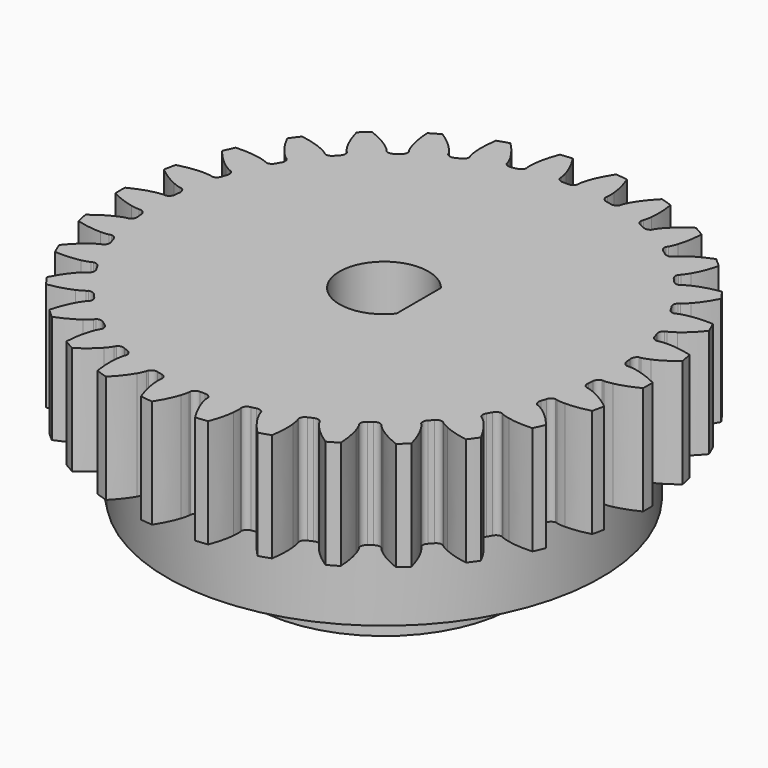
from build123d import *

# Parameters (mm, degrees)
PAD_DEPTH       = 5
POCKET002_DEPTH = 11.001
PAD007_DEPTH    = 3.5
SKETCH014_R     = 1
POCKET003_DEPTH = 5
FILLET_R        = 1


with BuildPart() as part:
    # Sketch010 → Revolution (revolve)
    with BuildSketch(Plane.XZ):
        Polygon((0, 11), (-10, 11), (-10, 2.5), (-6, 2.5), (-6, 0), (0, 0), align=None)
    revolve(axis=Axis((0, 0, 0), (0, 0, 1)))

    # InvoluteGear → Pad (new body)
    with BuildSketch(Plane.XY.offset(6)):
        with BuildLine():
            Line((10.615939, -0.715152), (10.704098, -0.720509))
            add(Edge.make_bspline(
                [(10.704098, -0.720509), (10.746069, -0.721059), (10.872585, -0.71818), (11.083148, -0.674656)],
                knots=[0, 0, 0, 0, 1, 1, 1, 1], degree=3))
            add(Edge.make_bspline(
                [(11.083148, -0.674656), (11.335623, -0.621892), (11.701003, -0.511169), (12.157546, -0.279921)],
                knots=[0, 0, 0, 0, 1, 1, 1, 1], degree=3))
            ThreePointArc((12.157546, -0.279921), (12.160768, 0), (12.157546, 0.279921))
            add(Edge.make_bspline(
                [(12.157546, 0.279921), (11.701003, 0.511169), (11.335623, 0.621892), (11.083148, 0.674656)],
                knots=[0, 0, 0, 0, 1, 1, 1, 1], degree=3))
            add(Edge.make_bspline(
                [(11.083148, 0.674656), (10.872585, 0.71818), (10.746069, 0.721059), (10.704098, 0.720509)],
                knots=[0, 0, 0, 0, 1, 1, 1, 1], degree=3))
            Line((10.704098, 0.720509), (10.615939, 0.715152))
            ThreePointArc((10.615939, 0.715152), (10.466645, 0.812163), (10.404055, 0.978843))
            ThreePointArc((10.404055, 0.978843), (10.392754, 1.092322), (10.380215, 1.205672))
            ThreePointArc((10.380215, 1.205672), (10.406782, 1.381723), (10.532644, 1.507653))
            Line((10.532644, 1.507653), (10.61999, 1.520743))
            add(Edge.make_bspline(
                [(10.61999, 1.520743), (10.661158, 1.528931), (10.784311, 1.558051), (10.981224, 1.644403)],
                knots=[0, 0, 0, 0, 1, 1, 1, 1], degree=3))
            add(Edge.make_bspline(
                [(10.981224, 1.644403), (11.217211, 1.748506), (11.551586, 1.932776), (11.950073, 2.253892)],
                knots=[0, 0, 0, 0, 1, 1, 1, 1], degree=3))
            ThreePointArc((11.950073, 2.253892), (11.895026, 2.528366), (11.833676, 2.8015))
            add(Edge.make_bspline(
                [(11.833676, 2.8015), (11.33903, 2.932774), (10.958613, 2.96511), (10.700686, 2.96423)],
                knots=[0, 0, 0, 0, 1, 1, 1, 1], degree=3))
            add(Edge.make_bspline(
                [(10.700686, 2.96423), (10.485675, 2.963024), (10.361325, 2.939536), (10.320385, 2.930271)],
                knots=[0, 0, 0, 0, 1, 1, 1, 1], degree=3))
            Line((10.320385, 2.930271), (10.235267, 2.906702))
            ThreePointArc((10.235267, 2.906702), (10.069065, 2.970553), (9.973189, 3.120578))
            ThreePointArc((9.973189, 3.120578), (9.938541, 3.229228), (9.902709, 3.337493))
            ThreePointArc((9.902709, 3.337493), (9.892092, 3.51522), (9.989021, 3.664567))
            Line((9.989021, 3.664567), (10.071737, 3.695531))
            add(Edge.make_bspline(
                [(10.071737, 3.695531), (10.110304, 3.712099), (10.224711, 3.766189), (10.399367, 3.891593)],
                knots=[0, 0, 0, 0, 1, 1, 1, 1], degree=3))
            add(Edge.make_bspline(
                [(10.399367, 3.891593), (10.608553, 4.042487), (10.89731, 4.29225), (11.220325, 4.689199)],
                knots=[0, 0, 0, 0, 1, 1, 1, 1], degree=3))
            ThreePointArc((11.220325, 4.689199), (11.109415, 4.94623), (10.992617, 5.20064))
            add(Edge.make_bspline(
                [(10.992617, 5.20064), (10.481487, 5.226203), (10.10266, 5.17874), (9.850552, 5.124252)],
                knots=[0, 0, 0, 0, 1, 1, 1, 1], degree=3))
            add(Edge.make_bspline(
                [(9.850552, 5.124252), (9.64049, 5.078369), (9.523741, 5.02954), (9.485622, 5.011967)],
                knots=[0, 0, 0, 0, 1, 1, 1, 1], degree=3))
            Line((9.485622, 5.011967), (9.407264, 4.971215))
            ThreePointArc((9.407264, 4.971215), (9.23142, 4.999116), (9.106446, 5.125928))
            ThreePointArc((9.106446, 5.125928), (9.049965, 5.225), (8.992407, 5.32345))
            ThreePointArc((8.992407, 5.32345), (8.945071, 5.495086), (9.008831, 5.661322))
            Line((9.008831, 5.661322), (9.083302, 5.708807))
            add(Edge.make_bspline(
                [(9.083302, 5.708807), (9.11758, 5.733031), (9.218242, 5.809725), (9.363009, 5.968703)],
                knots=[0, 0, 0, 0, 1, 1, 1, 1], degree=3))
            add(Edge.make_bspline(
                [(9.363009, 5.968703), (9.53625, 6.159791), (9.766768, 6.464133), (10.000195, 6.919566)],
                knots=[0, 0, 0, 0, 1, 1, 1, 1], degree=3))
            ThreePointArc((10.000195, 6.919566), (9.838268, 7.14792), (9.671128, 7.372487))
            add(Edge.make_bspline(
                [(9.671128, 7.372487), (9.165853, 7.291222), (8.805172, 7.166033), (8.569902, 7.06032)],
                knots=[0, 0, 0, 0, 1, 1, 1, 1], degree=3))
            add(Edge.make_bspline(
                [(8.569902, 7.06032), (8.37397, 6.971765), (8.269924, 6.89973), (8.236292, 6.874615)],
                knots=[0, 0, 0, 0, 1, 1, 1, 1], degree=3))
            Line((8.236292, 6.874615), (8.168119, 6.818463))
            ThreePointArc((8.168119, 6.818463), (7.990316, 6.809193), (7.841708, 6.907251))
            ThreePointArc((7.841708, 6.907251), (7.765863, 6.992415), (7.689094, 7.076746))
            ThreePointArc((7.689094, 7.076746), (7.607107, 7.23479), (7.634911, 7.41065))
            Line((7.634911, 7.41065), (7.697882, 7.47258))
            add(Edge.make_bspline(
                [(7.697882, 7.47258), (7.726375, 7.503402), (7.808891, 7.599349), (7.917441, 7.784951)],
                knots=[0, 0, 0, 0, 1, 1, 1, 1], degree=3))
            add(Edge.make_bspline(
                [(7.917441, 7.784951), (8.047168, 8.007882), (8.209372, 8.353501), (8.343008, 8.847514)],
                knots=[0, 0, 0, 0, 1, 1, 1, 1], degree=3))
            ThreePointArc((8.343008, 8.847514), (8.137142, 9.037212), (7.926965, 9.222121))
            add(Edge.make_bspline(
                [(7.926965, 9.222121), (7.449627, 9.037579), (7.122856, 8.840136), (6.914706, 8.687818)],
                knots=[0, 0, 0, 0, 1, 1, 1, 1], degree=3))
            add(Edge.make_bspline(
                [(6.914706, 8.687818), (6.741468, 8.560462), (6.654672, 8.468368), (6.626997, 8.43681)],
                knots=[0, 0, 0, 0, 1, 1, 1, 1], degree=3))
            Line((6.626997, 8.43681), (6.571988, 8.36771))
            ThreePointArc((6.571988, 8.36771), (6.399998, 8.321676), (6.23425, 8.386694))
            ThreePointArc((6.23425, 8.386694), (6.142356, 8.454228), (6.049731, 8.520755))
            ThreePointArc((6.049731, 8.520755), (5.936676, 8.658299), (5.927309, 8.836097))
            Line((5.927309, 8.836097), (5.976028, 8.909766))
            add(Edge.make_bspline(
                [(5.976028, 8.909766), (5.99749, 8.945839), (6.058255, 9.056845), (6.125844, 9.26096)],
                knots=[0, 0, 0, 0, 1, 1, 1, 1], degree=3))
            add(Edge.make_bspline(
                [(6.125844, 9.26096), (6.206385, 9.505991), (6.293187, 9.877781), (6.321191, 10.388783)],
                knots=[0, 0, 0, 0, 1, 1, 1, 1], degree=3))
            ThreePointArc((6.321191, 10.388783), (6.080384, 10.531534), (5.836355, 10.668704))
            add(Edge.make_bspline(
                [(5.836355, 10.668704), (5.407816, 10.388951), (5.129237, 10.127883), (4.957305, 9.935616)],
                knots=[0, 0, 0, 0, 1, 1, 1, 1], degree=3))
            add(Edge.make_bspline(
                [(4.957305, 9.935616), (4.81433, 9.775025), (4.748579, 9.666898), (4.72807, 9.630275)],
                knots=[0, 0, 0, 0, 1, 1, 1, 1], degree=3))
            Line((4.72807, 9.630275), (4.688629, 9.551249))
            ThreePointArc((4.688629, 9.551249), (4.529969, 9.470462), (4.354325, 9.499598))
            ThreePointArc((4.354325, 9.499598), (4.250398, 9.54655), (4.145965, 9.592365))
            ThreePointArc((4.145965, 9.592365), (4.006784, 9.703399), (3.960656, 9.875364))
            Line((3.960656, 9.875364), (3.992993, 9.957552))
            add(Edge.make_bspline(
                [(3.992993, 9.957552), (4.006486, 9.997299), (4.042843, 10.118513), (4.066518, 10.33222)],
                knots=[0, 0, 0, 0, 1, 1, 1, 1], degree=3))
            add(Edge.make_bspline(
                [(4.066518, 10.33222), (4.094354, 10.588643), (4.10196, 10.970355), (4.023109, 11.476013)],
                knots=[0, 0, 0, 0, 1, 1, 1, 1], degree=3))
            ThreePointArc((4.023109, 11.476013), (3.757884, 11.565578), (3.490668, 11.649014))
            add(Edge.make_bspline(
                [(3.490668, 11.649014), (3.129658, 11.286275), (2.911446, 10.972993), (2.783245, 10.749181)],
                knots=[0, 0, 0, 0, 1, 1, 1, 1], degree=3))
            add(Edge.make_bspline(
                [(2.783245, 10.749181), (2.676784, 10.562373), (2.63495, 10.442938), (2.622503, 10.402851)],
                knots=[0, 0, 0, 0, 1, 1, 1, 1], degree=3))
            Line((2.622503, 10.402851), (2.600355, 10.317352))
            ThreePointArc((2.600355, 10.317352), (2.461958, 10.205343), (2.284095, 10.197324))
            ThreePointArc((2.284095, 10.197324), (2.172677, 10.221642), (2.061001, 10.244744))
            ThreePointArc((2.061001, 10.244744), (1.901776, 10.324413), (1.820902, 10.48303))
            Line((1.820902, 10.48303), (1.835445, 10.570146))
            add(Edge.make_bspline(
                [(1.835445, 10.570146), (1.840379, 10.611829), (1.85074, 10.737954), (1.829465, 10.951913)],
                knots=[0, 0, 0, 0, 1, 1, 1, 1], degree=3))
            add(Edge.make_bspline(
                [(1.829465, 10.951913), (1.80338, 11.208519), (1.731457, 11.583472), (1.549197, 12.061686)],
                knots=[0, 0, 0, 0, 1, 1, 1, 1], degree=3))
            ThreePointArc((1.549197, 12.061686), (1.271146, 12.09415), (0.992422, 12.120205))
            add(Edge.make_bspline(
                [(0.992422, 12.120205), (0.714719, 11.690336), (0.56641, 11.33853), (0.487544, 11.092955)],
                knots=[0, 0, 0, 0, 1, 1, 1, 1], degree=3))
            add(Edge.make_bspline(
                [(0.487544, 11.092955), (0.422249, 10.888094), (0.406161, 10.762572), (0.402321, 10.720773)],
                knots=[0, 0, 0, 0, 1, 1, 1, 1], degree=3))
            Line((0.402321, 10.720773), (0.398433, 10.632537))
            ThreePointArc((0.398433, 10.632537), (0.286349, 10.494202), (0.114039, 10.449378))
            ThreePointArc((0.114039, 10.449378), (0, 10.45), (-0.114039, 10.449378))
            ThreePointArc((-0.114039, 10.449378), (-0.286349, 10.494202), (-0.398433, 10.632537))
            Line((-0.398433, 10.632537), (-0.402321, 10.720773))
            add(Edge.make_bspline(
                [(-0.402321, 10.720773), (-0.406161, 10.762572), (-0.422249, 10.888094), (-0.487544, 11.092955)],
                knots=[0, 0, 0, 0, 1, 1, 1, 1], degree=3))
            add(Edge.make_bspline(
                [(-0.487544, 11.092955), (-0.56641, 11.33853), (-0.714719, 11.690336), (-0.992422, 12.120205)],
                knots=[0, 0, 0, 0, 1, 1, 1, 1], degree=3))
            ThreePointArc((-0.992422, 12.120205), (-1.271146, 12.09415), (-1.549197, 12.061686))
            add(Edge.make_bspline(
                [(-1.549197, 12.061686), (-1.731457, 11.583472), (-1.80338, 11.208519), (-1.829465, 10.951913)],
                knots=[0, 0, 0, 0, 1, 1, 1, 1], degree=3))
            add(Edge.make_bspline(
                [(-1.829465, 10.951913), (-1.85074, 10.737954), (-1.840379, 10.611829), (-1.835445, 10.570146)],
                knots=[0, 0, 0, 0, 1, 1, 1, 1], degree=3))
            Line((-1.835445, 10.570146), (-1.820902, 10.48303))
            ThreePointArc((-1.820902, 10.48303), (-1.901776, 10.324413), (-2.061001, 10.244744))
            ThreePointArc((-2.061001, 10.244744), (-2.172677, 10.221642), (-2.284095, 10.197324))
            ThreePointArc((-2.284095, 10.197324), (-2.461958, 10.205343), (-2.600355, 10.317352))
            Line((-2.600355, 10.317352), (-2.622503, 10.402851))
            add(Edge.make_bspline(
                [(-2.622503, 10.402851), (-2.63495, 10.442938), (-2.676784, 10.562373), (-2.783245, 10.749181)],
                knots=[0, 0, 0, 0, 1, 1, 1, 1], degree=3))
            add(Edge.make_bspline(
                [(-2.783245, 10.749181), (-2.911446, 10.972993), (-3.129658, 11.286275), (-3.490668, 11.649014)],
                knots=[0, 0, 0, 0, 1, 1, 1, 1], degree=3))
            ThreePointArc((-3.490668, 11.649014), (-3.757884, 11.565578), (-4.023109, 11.476013))
            add(Edge.make_bspline(
                [(-4.023109, 11.476013), (-4.10196, 10.970355), (-4.094354, 10.588643), (-4.066518, 10.33222)],
                knots=[0, 0, 0, 0, 1, 1, 1, 1], degree=3))
            add(Edge.make_bspline(
                [(-4.066518, 10.33222), (-4.042843, 10.118513), (-4.006486, 9.997299), (-3.992993, 9.957552)],
                knots=[0, 0, 0, 0, 1, 1, 1, 1], degree=3))
            Line((-3.992993, 9.957552), (-3.960656, 9.875364))
            ThreePointArc((-3.960656, 9.875364), (-4.006784, 9.703399), (-4.145965, 9.592365))
            ThreePointArc((-4.145965, 9.592365), (-4.250398, 9.54655), (-4.354325, 9.499598))
            ThreePointArc((-4.354325, 9.499598), (-4.529969, 9.470462), (-4.688629, 9.551249))
            Line((-4.688629, 9.551249), (-4.72807, 9.630275))
            add(Edge.make_bspline(
                [(-4.72807, 9.630275), (-4.748579, 9.666898), (-4.81433, 9.775025), (-4.957305, 9.935616)],
                knots=[0, 0, 0, 0, 1, 1, 1, 1], degree=3))
            add(Edge.make_bspline(
                [(-4.957305, 9.935616), (-5.129237, 10.127883), (-5.407816, 10.388951), (-5.836355, 10.668704)],
                knots=[0, 0, 0, 0, 1, 1, 1, 1], degree=3))
            ThreePointArc((-5.836355, 10.668704), (-6.080384, 10.531534), (-6.321191, 10.388783))
            add(Edge.make_bspline(
                [(-6.321191, 10.388783), (-6.293187, 9.877781), (-6.206385, 9.505991), (-6.125844, 9.26096)],
                knots=[0, 0, 0, 0, 1, 1, 1, 1], degree=3))
            add(Edge.make_bspline(
                [(-6.125844, 9.26096), (-6.058255, 9.056845), (-5.99749, 8.945839), (-5.976028, 8.909766)],
                knots=[0, 0, 0, 0, 1, 1, 1, 1], degree=3))
            Line((-5.976028, 8.909766), (-5.927309, 8.836097))
            ThreePointArc((-5.927309, 8.836097), (-5.936676, 8.658299), (-6.049731, 8.520755))
            ThreePointArc((-6.049731, 8.520755), (-6.142356, 8.454228), (-6.23425, 8.386694))
            ThreePointArc((-6.23425, 8.386694), (-6.399998, 8.321676), (-6.571988, 8.36771))
            Line((-6.571988, 8.36771), (-6.626997, 8.43681))
            add(Edge.make_bspline(
                [(-6.626997, 8.43681), (-6.654672, 8.468368), (-6.741468, 8.560462), (-6.914706, 8.687818)],
                knots=[0, 0, 0, 0, 1, 1, 1, 1], degree=3))
            add(Edge.make_bspline(
                [(-6.914706, 8.687818), (-7.122856, 8.840136), (-7.449627, 9.037579), (-7.926965, 9.222121)],
                knots=[0, 0, 0, 0, 1, 1, 1, 1], degree=3))
            ThreePointArc((-7.926965, 9.222121), (-8.137142, 9.037212), (-8.343008, 8.847514))
            add(Edge.make_bspline(
                [(-8.343008, 8.847514), (-8.209372, 8.353501), (-8.047168, 8.007882), (-7.917441, 7.784951)],
                knots=[0, 0, 0, 0, 1, 1, 1, 1], degree=3))
            add(Edge.make_bspline(
                [(-7.917441, 7.784951), (-7.808891, 7.599349), (-7.726375, 7.503402), (-7.697882, 7.47258)],
                knots=[0, 0, 0, 0, 1, 1, 1, 1], degree=3))
            Line((-7.697882, 7.47258), (-7.634911, 7.41065))
            ThreePointArc((-7.634911, 7.41065), (-7.607107, 7.23479), (-7.689094, 7.076746))
            ThreePointArc((-7.689094, 7.076746), (-7.765863, 6.992415), (-7.841708, 6.907251))
            ThreePointArc((-7.841708, 6.907251), (-7.990316, 6.809193), (-8.168119, 6.818463))
            Line((-8.168119, 6.818463), (-8.236292, 6.874615))
            add(Edge.make_bspline(
                [(-8.236292, 6.874615), (-8.269924, 6.89973), (-8.37397, 6.971765), (-8.569902, 7.06032)],
                knots=[0, 0, 0, 0, 1, 1, 1, 1], degree=3))
            add(Edge.make_bspline(
                [(-8.569902, 7.06032), (-8.805172, 7.166033), (-9.165853, 7.291222), (-9.671128, 7.372487)],
                knots=[0, 0, 0, 0, 1, 1, 1, 1], degree=3))
            ThreePointArc((-9.671128, 7.372487), (-9.838268, 7.14792), (-10.000195, 6.919566))
            add(Edge.make_bspline(
                [(-10.000195, 6.919566), (-9.766768, 6.464133), (-9.53625, 6.159791), (-9.363009, 5.968703)],
                knots=[0, 0, 0, 0, 1, 1, 1, 1], degree=3))
            add(Edge.make_bspline(
                [(-9.363009, 5.968703), (-9.218242, 5.809725), (-9.11758, 5.733031), (-9.083302, 5.708807)],
                knots=[0, 0, 0, 0, 1, 1, 1, 1], degree=3))
            Line((-9.083302, 5.708807), (-9.008831, 5.661322))
            ThreePointArc((-9.008831, 5.661322), (-8.945071, 5.495086), (-8.992407, 5.32345))
            ThreePointArc((-8.992407, 5.32345), (-9.049965, 5.225), (-9.106446, 5.125928))
            ThreePointArc((-9.106446, 5.125928), (-9.23142, 4.999116), (-9.407264, 4.971215))
            Line((-9.407264, 4.971215), (-9.485622, 5.011967))
            add(Edge.make_bspline(
                [(-9.485622, 5.011967), (-9.523741, 5.02954), (-9.64049, 5.078369), (-9.850552, 5.124252)],
                knots=[0, 0, 0, 0, 1, 1, 1, 1], degree=3))
            add(Edge.make_bspline(
                [(-9.850552, 5.124252), (-10.10266, 5.17874), (-10.481487, 5.226203), (-10.992617, 5.20064)],
                knots=[0, 0, 0, 0, 1, 1, 1, 1], degree=3))
            ThreePointArc((-10.992617, 5.20064), (-11.109415, 4.94623), (-11.220325, 4.689199))
            add(Edge.make_bspline(
                [(-11.220325, 4.689199), (-10.89731, 4.29225), (-10.608553, 4.042487), (-10.399367, 3.891593)],
                knots=[0, 0, 0, 0, 1, 1, 1, 1], degree=3))
            add(Edge.make_bspline(
                [(-10.399367, 3.891593), (-10.224711, 3.766189), (-10.110304, 3.712099), (-10.071737, 3.695531)],
                knots=[0, 0, 0, 0, 1, 1, 1, 1], degree=3))
            Line((-10.071737, 3.695531), (-9.989021, 3.664567))
            ThreePointArc((-9.989021, 3.664567), (-9.892092, 3.51522), (-9.902709, 3.337493))
            ThreePointArc((-9.902709, 3.337493), (-9.938541, 3.229228), (-9.973189, 3.120578))
            ThreePointArc((-9.973189, 3.120578), (-10.069065, 2.970553), (-10.235267, 2.906702))
            Line((-10.235267, 2.906702), (-10.320385, 2.930271))
            add(Edge.make_bspline(
                [(-10.320385, 2.930271), (-10.361325, 2.939536), (-10.485675, 2.963024), (-10.700686, 2.96423)],
                knots=[0, 0, 0, 0, 1, 1, 1, 1], degree=3))
            add(Edge.make_bspline(
                [(-10.700686, 2.96423), (-10.958613, 2.96511), (-11.33903, 2.932774), (-11.833676, 2.8015)],
                knots=[0, 0, 0, 0, 1, 1, 1, 1], degree=3))
            ThreePointArc((-11.833676, 2.8015), (-11.895026, 2.528366), (-11.950073, 2.253892))
            add(Edge.make_bspline(
                [(-11.950073, 2.253892), (-11.551586, 1.932776), (-11.217211, 1.748506), (-10.981224, 1.644403)],
                knots=[0, 0, 0, 0, 1, 1, 1, 1], degree=3))
            add(Edge.make_bspline(
                [(-10.981224, 1.644403), (-10.784311, 1.558051), (-10.661158, 1.528931), (-10.61999, 1.520743)],
                knots=[0, 0, 0, 0, 1, 1, 1, 1], degree=3))
            Line((-10.61999, 1.520743), (-10.532644, 1.507653))
            ThreePointArc((-10.532644, 1.507653), (-10.406782, 1.381723), (-10.380215, 1.205672))
            ThreePointArc((-10.380215, 1.205672), (-10.392754, 1.092322), (-10.404055, 0.978843))
            ThreePointArc((-10.404055, 0.978843), (-10.466645, 0.812163), (-10.615939, 0.715152))
            Line((-10.615939, 0.715152), (-10.704098, 0.720509))
            add(Edge.make_bspline(
                [(-10.704098, 0.720509), (-10.746069, 0.721059), (-10.872585, 0.71818), (-11.083148, 0.674656)],
                knots=[0, 0, 0, 0, 1, 1, 1, 1], degree=3))
            add(Edge.make_bspline(
                [(-11.083148, 0.674656), (-11.335623, 0.621892), (-11.701003, 0.511169), (-12.157546, 0.279921)],
                knots=[0, 0, 0, 0, 1, 1, 1, 1], degree=3))
            ThreePointArc((-12.157546, 0.279921), (-12.160768, 0), (-12.157546, -0.279921))
            add(Edge.make_bspline(
                [(-12.157546, -0.279921), (-11.701003, -0.511169), (-11.335623, -0.621892), (-11.083148, -0.674656)],
                knots=[0, 0, 0, 0, 1, 1, 1, 1], degree=3))
            add(Edge.make_bspline(
                [(-11.083148, -0.674656), (-10.872585, -0.71818), (-10.746069, -0.721059), (-10.704098, -0.720509)],
                knots=[0, 0, 0, 0, 1, 1, 1, 1], degree=3))
            Line((-10.704098, -0.720509), (-10.615939, -0.715152))
            ThreePointArc((-10.615939, -0.715152), (-10.466645, -0.812163), (-10.404055, -0.978843))
            ThreePointArc((-10.404055, -0.978843), (-10.392754, -1.092322), (-10.380215, -1.205672))
            ThreePointArc((-10.380215, -1.205672), (-10.406782, -1.381723), (-10.532644, -1.507653))
            Line((-10.532644, -1.507653), (-10.61999, -1.520743))
            add(Edge.make_bspline(
                [(-10.61999, -1.520743), (-10.661158, -1.528931), (-10.784311, -1.558051), (-10.981224, -1.644403)],
                knots=[0, 0, 0, 0, 1, 1, 1, 1], degree=3))
            add(Edge.make_bspline(
                [(-10.981224, -1.644403), (-11.217211, -1.748506), (-11.551586, -1.932776), (-11.950073, -2.253892)],
                knots=[0, 0, 0, 0, 1, 1, 1, 1], degree=3))
            ThreePointArc((-11.950073, -2.253892), (-11.895026, -2.528366), (-11.833676, -2.8015))
            add(Edge.make_bspline(
                [(-11.833676, -2.8015), (-11.33903, -2.932774), (-10.958613, -2.96511), (-10.700686, -2.96423)],
                knots=[0, 0, 0, 0, 1, 1, 1, 1], degree=3))
            add(Edge.make_bspline(
                [(-10.700686, -2.96423), (-10.485675, -2.963024), (-10.361325, -2.939536), (-10.320385, -2.930271)],
                knots=[0, 0, 0, 0, 1, 1, 1, 1], degree=3))
            Line((-10.320385, -2.930271), (-10.235267, -2.906702))
            ThreePointArc((-10.235267, -2.906702), (-10.069065, -2.970553), (-9.973189, -3.120578))
            ThreePointArc((-9.973189, -3.120578), (-9.938541, -3.229228), (-9.902709, -3.337493))
            ThreePointArc((-9.902709, -3.337493), (-9.892092, -3.51522), (-9.989021, -3.664567))
            Line((-9.989021, -3.664567), (-10.071737, -3.695531))
            add(Edge.make_bspline(
                [(-10.071737, -3.695531), (-10.110304, -3.712099), (-10.224711, -3.766189), (-10.399367, -3.891593)],
                knots=[0, 0, 0, 0, 1, 1, 1, 1], degree=3))
            add(Edge.make_bspline(
                [(-10.399367, -3.891593), (-10.608553, -4.042487), (-10.89731, -4.29225), (-11.220325, -4.689199)],
                knots=[0, 0, 0, 0, 1, 1, 1, 1], degree=3))
            ThreePointArc((-11.220325, -4.689199), (-11.109415, -4.94623), (-10.992617, -5.20064))
            add(Edge.make_bspline(
                [(-10.992617, -5.20064), (-10.481487, -5.226203), (-10.10266, -5.17874), (-9.850552, -5.124252)],
                knots=[0, 0, 0, 0, 1, 1, 1, 1], degree=3))
            add(Edge.make_bspline(
                [(-9.850552, -5.124252), (-9.64049, -5.078369), (-9.523741, -5.02954), (-9.485622, -5.011967)],
                knots=[0, 0, 0, 0, 1, 1, 1, 1], degree=3))
            Line((-9.485622, -5.011967), (-9.407264, -4.971215))
            ThreePointArc((-9.407264, -4.971215), (-9.23142, -4.999116), (-9.106446, -5.125928))
            ThreePointArc((-9.106446, -5.125928), (-9.049965, -5.225), (-8.992407, -5.32345))
            ThreePointArc((-8.992407, -5.32345), (-8.945071, -5.495086), (-9.008831, -5.661322))
            Line((-9.008831, -5.661322), (-9.083302, -5.708807))
            add(Edge.make_bspline(
                [(-9.083302, -5.708807), (-9.11758, -5.733031), (-9.218242, -5.809725), (-9.363009, -5.968703)],
                knots=[0, 0, 0, 0, 1, 1, 1, 1], degree=3))
            add(Edge.make_bspline(
                [(-9.363009, -5.968703), (-9.53625, -6.159791), (-9.766768, -6.464133), (-10.000195, -6.919566)],
                knots=[0, 0, 0, 0, 1, 1, 1, 1], degree=3))
            ThreePointArc((-10.000195, -6.919566), (-9.838268, -7.14792), (-9.671128, -7.372487))
            add(Edge.make_bspline(
                [(-9.671128, -7.372487), (-9.165853, -7.291222), (-8.805172, -7.166033), (-8.569902, -7.06032)],
                knots=[0, 0, 0, 0, 1, 1, 1, 1], degree=3))
            add(Edge.make_bspline(
                [(-8.569902, -7.06032), (-8.37397, -6.971765), (-8.269924, -6.89973), (-8.236292, -6.874615)],
                knots=[0, 0, 0, 0, 1, 1, 1, 1], degree=3))
            Line((-8.236292, -6.874615), (-8.168119, -6.818463))
            ThreePointArc((-8.168119, -6.818463), (-7.990316, -6.809193), (-7.841708, -6.907251))
            ThreePointArc((-7.841708, -6.907251), (-7.765863, -6.992415), (-7.689094, -7.076746))
            ThreePointArc((-7.689094, -7.076746), (-7.607107, -7.23479), (-7.634911, -7.41065))
            Line((-7.634911, -7.41065), (-7.697882, -7.47258))
            add(Edge.make_bspline(
                [(-7.697882, -7.47258), (-7.726375, -7.503402), (-7.808891, -7.599349), (-7.917441, -7.784951)],
                knots=[0, 0, 0, 0, 1, 1, 1, 1], degree=3))
            add(Edge.make_bspline(
                [(-7.917441, -7.784951), (-8.047168, -8.007882), (-8.209372, -8.353501), (-8.343008, -8.847514)],
                knots=[0, 0, 0, 0, 1, 1, 1, 1], degree=3))
            ThreePointArc((-8.343008, -8.847514), (-8.137142, -9.037212), (-7.926965, -9.222121))
            add(Edge.make_bspline(
                [(-7.926965, -9.222121), (-7.449627, -9.037579), (-7.122856, -8.840136), (-6.914706, -8.687818)],
                knots=[0, 0, 0, 0, 1, 1, 1, 1], degree=3))
            add(Edge.make_bspline(
                [(-6.914706, -8.687818), (-6.741468, -8.560462), (-6.654672, -8.468368), (-6.626997, -8.43681)],
                knots=[0, 0, 0, 0, 1, 1, 1, 1], degree=3))
            Line((-6.626997, -8.43681), (-6.571988, -8.36771))
            ThreePointArc((-6.571988, -8.36771), (-6.399998, -8.321676), (-6.23425, -8.386694))
            ThreePointArc((-6.23425, -8.386694), (-6.142356, -8.454228), (-6.049731, -8.520755))
            ThreePointArc((-6.049731, -8.520755), (-5.936676, -8.658299), (-5.927309, -8.836097))
            Line((-5.927309, -8.836097), (-5.976028, -8.909766))
            add(Edge.make_bspline(
                [(-5.976028, -8.909766), (-5.99749, -8.945839), (-6.058255, -9.056845), (-6.125844, -9.26096)],
                knots=[0, 0, 0, 0, 1, 1, 1, 1], degree=3))
            add(Edge.make_bspline(
                [(-6.125844, -9.26096), (-6.206385, -9.505991), (-6.293187, -9.877781), (-6.321191, -10.388783)],
                knots=[0, 0, 0, 0, 1, 1, 1, 1], degree=3))
            ThreePointArc((-6.321191, -10.388783), (-6.080384, -10.531534), (-5.836355, -10.668704))
            add(Edge.make_bspline(
                [(-5.836355, -10.668704), (-5.407816, -10.388951), (-5.129237, -10.127883), (-4.957305, -9.935616)],
                knots=[0, 0, 0, 0, 1, 1, 1, 1], degree=3))
            add(Edge.make_bspline(
                [(-4.957305, -9.935616), (-4.81433, -9.775025), (-4.748579, -9.666898), (-4.72807, -9.630275)],
                knots=[0, 0, 0, 0, 1, 1, 1, 1], degree=3))
            Line((-4.72807, -9.630275), (-4.688629, -9.551249))
            ThreePointArc((-4.688629, -9.551249), (-4.529969, -9.470462), (-4.354325, -9.499598))
            ThreePointArc((-4.354325, -9.499598), (-4.250398, -9.54655), (-4.145965, -9.592365))
            ThreePointArc((-4.145965, -9.592365), (-4.006784, -9.703399), (-3.960656, -9.875364))
            Line((-3.960656, -9.875364), (-3.992993, -9.957552))
            add(Edge.make_bspline(
                [(-3.992993, -9.957552), (-4.006486, -9.997299), (-4.042843, -10.118513), (-4.066518, -10.33222)],
                knots=[0, 0, 0, 0, 1, 1, 1, 1], degree=3))
            add(Edge.make_bspline(
                [(-4.066518, -10.33222), (-4.094354, -10.588643), (-4.10196, -10.970355), (-4.023109, -11.476013)],
                knots=[0, 0, 0, 0, 1, 1, 1, 1], degree=3))
            ThreePointArc((-4.023109, -11.476013), (-3.757884, -11.565578), (-3.490668, -11.649014))
            add(Edge.make_bspline(
                [(-3.490668, -11.649014), (-3.129658, -11.286275), (-2.911446, -10.972993), (-2.783245, -10.749181)],
                knots=[0, 0, 0, 0, 1, 1, 1, 1], degree=3))
            add(Edge.make_bspline(
                [(-2.783245, -10.749181), (-2.676784, -10.562373), (-2.63495, -10.442938), (-2.622503, -10.402851)],
                knots=[0, 0, 0, 0, 1, 1, 1, 1], degree=3))
            Line((-2.622503, -10.402851), (-2.600355, -10.317352))
            ThreePointArc((-2.600355, -10.317352), (-2.461958, -10.205343), (-2.284095, -10.197324))
            ThreePointArc((-2.284095, -10.197324), (-2.172677, -10.221642), (-2.061001, -10.244744))
            ThreePointArc((-2.061001, -10.244744), (-1.901776, -10.324413), (-1.820902, -10.48303))
            Line((-1.820902, -10.48303), (-1.835445, -10.570146))
            add(Edge.make_bspline(
                [(-1.835445, -10.570146), (-1.840379, -10.611829), (-1.85074, -10.737954), (-1.829465, -10.951913)],
                knots=[0, 0, 0, 0, 1, 1, 1, 1], degree=3))
            add(Edge.make_bspline(
                [(-1.829465, -10.951913), (-1.80338, -11.208519), (-1.731457, -11.583472), (-1.549197, -12.061686)],
                knots=[0, 0, 0, 0, 1, 1, 1, 1], degree=3))
            ThreePointArc((-1.549197, -12.061686), (-1.271146, -12.09415), (-0.992422, -12.120205))
            add(Edge.make_bspline(
                [(-0.992422, -12.120205), (-0.714719, -11.690336), (-0.56641, -11.33853), (-0.487544, -11.092955)],
                knots=[0, 0, 0, 0, 1, 1, 1, 1], degree=3))
            add(Edge.make_bspline(
                [(-0.487544, -11.092955), (-0.422249, -10.888094), (-0.406161, -10.762572), (-0.402321, -10.720773)],
                knots=[0, 0, 0, 0, 1, 1, 1, 1], degree=3))
            Line((-0.402321, -10.720773), (-0.398433, -10.632537))
            ThreePointArc((-0.398433, -10.632537), (-0.286349, -10.494202), (-0.114039, -10.449378))
            ThreePointArc((-0.114039, -10.449378), (0, -10.45), (0.114039, -10.449378))
            ThreePointArc((0.114039, -10.449378), (0.286349, -10.494202), (0.398433, -10.632537))
            Line((0.398433, -10.632537), (0.402321, -10.720773))
            add(Edge.make_bspline(
                [(0.402321, -10.720773), (0.406161, -10.762572), (0.422249, -10.888094), (0.487544, -11.092955)],
                knots=[0, 0, 0, 0, 1, 1, 1, 1], degree=3))
            add(Edge.make_bspline(
                [(0.487544, -11.092955), (0.56641, -11.33853), (0.714719, -11.690336), (0.992422, -12.120205)],
                knots=[0, 0, 0, 0, 1, 1, 1, 1], degree=3))
            ThreePointArc((0.992422, -12.120205), (1.271146, -12.09415), (1.549197, -12.061686))
            add(Edge.make_bspline(
                [(1.549197, -12.061686), (1.731457, -11.583472), (1.80338, -11.208519), (1.829465, -10.951913)],
                knots=[0, 0, 0, 0, 1, 1, 1, 1], degree=3))
            add(Edge.make_bspline(
                [(1.829465, -10.951913), (1.85074, -10.737954), (1.840379, -10.611829), (1.835445, -10.570146)],
                knots=[0, 0, 0, 0, 1, 1, 1, 1], degree=3))
            Line((1.835445, -10.570146), (1.820902, -10.48303))
            ThreePointArc((1.820902, -10.48303), (1.901776, -10.324413), (2.061001, -10.244744))
            ThreePointArc((2.061001, -10.244744), (2.172677, -10.221642), (2.284095, -10.197324))
            ThreePointArc((2.284095, -10.197324), (2.461958, -10.205343), (2.600355, -10.317352))
            Line((2.600355, -10.317352), (2.622503, -10.402851))
            add(Edge.make_bspline(
                [(2.622503, -10.402851), (2.63495, -10.442938), (2.676784, -10.562373), (2.783245, -10.749181)],
                knots=[0, 0, 0, 0, 1, 1, 1, 1], degree=3))
            add(Edge.make_bspline(
                [(2.783245, -10.749181), (2.911446, -10.972993), (3.129658, -11.286275), (3.490668, -11.649014)],
                knots=[0, 0, 0, 0, 1, 1, 1, 1], degree=3))
            ThreePointArc((3.490668, -11.649014), (3.757884, -11.565578), (4.023109, -11.476013))
            add(Edge.make_bspline(
                [(4.023109, -11.476013), (4.10196, -10.970355), (4.094354, -10.588643), (4.066518, -10.33222)],
                knots=[0, 0, 0, 0, 1, 1, 1, 1], degree=3))
            add(Edge.make_bspline(
                [(4.066518, -10.33222), (4.042843, -10.118513), (4.006486, -9.997299), (3.992993, -9.957552)],
                knots=[0, 0, 0, 0, 1, 1, 1, 1], degree=3))
            Line((3.992993, -9.957552), (3.960656, -9.875364))
            ThreePointArc((3.960656, -9.875364), (4.006784, -9.703399), (4.145965, -9.592365))
            ThreePointArc((4.145965, -9.592365), (4.250398, -9.54655), (4.354325, -9.499598))
            ThreePointArc((4.354325, -9.499598), (4.529969, -9.470462), (4.688629, -9.551249))
            Line((4.688629, -9.551249), (4.72807, -9.630275))
            add(Edge.make_bspline(
                [(4.72807, -9.630275), (4.748579, -9.666898), (4.81433, -9.775025), (4.957305, -9.935616)],
                knots=[0, 0, 0, 0, 1, 1, 1, 1], degree=3))
            add(Edge.make_bspline(
                [(4.957305, -9.935616), (5.129237, -10.127883), (5.407816, -10.388951), (5.836355, -10.668704)],
                knots=[0, 0, 0, 0, 1, 1, 1, 1], degree=3))
            ThreePointArc((5.836355, -10.668704), (6.080384, -10.531534), (6.321191, -10.388783))
            add(Edge.make_bspline(
                [(6.321191, -10.388783), (6.293187, -9.877781), (6.206385, -9.505991), (6.125844, -9.26096)],
                knots=[0, 0, 0, 0, 1, 1, 1, 1], degree=3))
            add(Edge.make_bspline(
                [(6.125844, -9.26096), (6.058255, -9.056845), (5.99749, -8.945839), (5.976028, -8.909766)],
                knots=[0, 0, 0, 0, 1, 1, 1, 1], degree=3))
            Line((5.976028, -8.909766), (5.927309, -8.836097))
            ThreePointArc((5.927309, -8.836097), (5.936676, -8.658299), (6.049731, -8.520755))
            ThreePointArc((6.049731, -8.520755), (6.142356, -8.454228), (6.23425, -8.386694))
            ThreePointArc((6.23425, -8.386694), (6.399998, -8.321676), (6.571988, -8.36771))
            Line((6.571988, -8.36771), (6.626997, -8.43681))
            add(Edge.make_bspline(
                [(6.626997, -8.43681), (6.654672, -8.468368), (6.741468, -8.560462), (6.914706, -8.687818)],
                knots=[0, 0, 0, 0, 1, 1, 1, 1], degree=3))
            add(Edge.make_bspline(
                [(6.914706, -8.687818), (7.122856, -8.840136), (7.449627, -9.037579), (7.926965, -9.222121)],
                knots=[0, 0, 0, 0, 1, 1, 1, 1], degree=3))
            ThreePointArc((7.926965, -9.222121), (8.137142, -9.037212), (8.343008, -8.847514))
            add(Edge.make_bspline(
                [(8.343008, -8.847514), (8.209372, -8.353501), (8.047168, -8.007882), (7.917441, -7.784951)],
                knots=[0, 0, 0, 0, 1, 1, 1, 1], degree=3))
            add(Edge.make_bspline(
                [(7.917441, -7.784951), (7.808891, -7.599349), (7.726375, -7.503402), (7.697882, -7.47258)],
                knots=[0, 0, 0, 0, 1, 1, 1, 1], degree=3))
            Line((7.697882, -7.47258), (7.634911, -7.41065))
            ThreePointArc((7.634911, -7.41065), (7.607107, -7.23479), (7.689094, -7.076746))
            ThreePointArc((7.689094, -7.076746), (7.765863, -6.992415), (7.841708, -6.907251))
            ThreePointArc((7.841708, -6.907251), (7.990316, -6.809193), (8.168119, -6.818463))
            Line((8.168119, -6.818463), (8.236292, -6.874615))
            add(Edge.make_bspline(
                [(8.236292, -6.874615), (8.269924, -6.89973), (8.37397, -6.971765), (8.569902, -7.06032)],
                knots=[0, 0, 0, 0, 1, 1, 1, 1], degree=3))
            add(Edge.make_bspline(
                [(8.569902, -7.06032), (8.805172, -7.166033), (9.165853, -7.291222), (9.671128, -7.372487)],
                knots=[0, 0, 0, 0, 1, 1, 1, 1], degree=3))
            ThreePointArc((9.671128, -7.372487), (9.838268, -7.14792), (10.000195, -6.919566))
            add(Edge.make_bspline(
                [(10.000195, -6.919566), (9.766768, -6.464133), (9.53625, -6.159791), (9.363009, -5.968703)],
                knots=[0, 0, 0, 0, 1, 1, 1, 1], degree=3))
            add(Edge.make_bspline(
                [(9.363009, -5.968703), (9.218242, -5.809725), (9.11758, -5.733031), (9.083302, -5.708807)],
                knots=[0, 0, 0, 0, 1, 1, 1, 1], degree=3))
            Line((9.083302, -5.708807), (9.008831, -5.661322))
            ThreePointArc((9.008831, -5.661322), (8.945071, -5.495086), (8.992407, -5.32345))
            ThreePointArc((8.992407, -5.32345), (9.049965, -5.225), (9.106446, -5.125928))
            ThreePointArc((9.106446, -5.125928), (9.23142, -4.999116), (9.407264, -4.971215))
            Line((9.407264, -4.971215), (9.485622, -5.011967))
            add(Edge.make_bspline(
                [(9.485622, -5.011967), (9.523741, -5.02954), (9.64049, -5.078369), (9.850552, -5.124252)],
                knots=[0, 0, 0, 0, 1, 1, 1, 1], degree=3))
            add(Edge.make_bspline(
                [(9.850552, -5.124252), (10.10266, -5.17874), (10.481487, -5.226203), (10.992617, -5.20064)],
                knots=[0, 0, 0, 0, 1, 1, 1, 1], degree=3))
            ThreePointArc((10.992617, -5.20064), (11.109415, -4.94623), (11.220325, -4.689199))
            add(Edge.make_bspline(
                [(11.220325, -4.689199), (10.89731, -4.29225), (10.608553, -4.042487), (10.399367, -3.891593)],
                knots=[0, 0, 0, 0, 1, 1, 1, 1], degree=3))
            add(Edge.make_bspline(
                [(10.399367, -3.891593), (10.224711, -3.766189), (10.110304, -3.712099), (10.071737, -3.695531)],
                knots=[0, 0, 0, 0, 1, 1, 1, 1], degree=3))
            Line((10.071737, -3.695531), (9.989021, -3.664567))
            ThreePointArc((9.989021, -3.664567), (9.892092, -3.51522), (9.902709, -3.337493))
            ThreePointArc((9.902709, -3.337493), (9.938541, -3.229228), (9.973189, -3.120578))
            ThreePointArc((9.973189, -3.120578), (10.069065, -2.970553), (10.235267, -2.906702))
            Line((10.235267, -2.906702), (10.320385, -2.930271))
            add(Edge.make_bspline(
                [(10.320385, -2.930271), (10.361325, -2.939536), (10.485675, -2.963024), (10.700686, -2.96423)],
                knots=[0, 0, 0, 0, 1, 1, 1, 1], degree=3))
            add(Edge.make_bspline(
                [(10.700686, -2.96423), (10.958613, -2.96511), (11.33903, -2.932774), (11.833676, -2.8015)],
                knots=[0, 0, 0, 0, 1, 1, 1, 1], degree=3))
            ThreePointArc((11.833676, -2.8015), (11.895026, -2.528366), (11.950073, -2.253892))
            add(Edge.make_bspline(
                [(11.950073, -2.253892), (11.551586, -1.932776), (11.217211, -1.748506), (10.981224, -1.644403)],
                knots=[0, 0, 0, 0, 1, 1, 1, 1], degree=3))
            add(Edge.make_bspline(
                [(10.981224, -1.644403), (10.784311, -1.558051), (10.661158, -1.528931), (10.61999, -1.520743)],
                knots=[0, 0, 0, 0, 1, 1, 1, 1], degree=3))
            Line((10.61999, -1.520743), (10.532644, -1.507653))
            ThreePointArc((10.532644, -1.507653), (10.406782, -1.381723), (10.380215, -1.205672))
            ThreePointArc((10.380215, -1.205672), (10.392754, -1.092322), (10.404055, -0.978843))
            ThreePointArc((10.404055, -0.978843), (10.466645, -0.812163), (10.615939, -0.715152))
        make_face()
    extrude(amount=PAD_DEPTH)

    # Sketch011 (on Face2 of Revolution) → Pocket002 (cut, through all)
    with BuildSketch(Plane(origin=(0, 0, 11), x_dir=(-1, 0, 0), z_dir=(0, 0, 1))):
        with BuildLine():
            ThreePointArc((-1.6, -1.281601), (2.05, 0), (-1.6, 1.281601))
            Line((-1.6, 1.281601), (-1.6, -1.281601))
        make_face()
    extrude(amount=-POCKET002_DEPTH, mode=Mode.SUBTRACT)

    # Sketch012 (on Face5 of Pocket002) → Pad007 (join)
    with BuildSketch(Plane(origin=(0, 0, 2.5), x_dir=(-1, 0, 0), z_dir=(0, 0, 1))):
        Polygon((7.142886, 6.998513), (14, 0), (7.142886, -6.998513), align=None)
    extrude(amount=PAD007_DEPTH)

    # Sketch014 → Pocket003 (cut)
    with BuildSketch(Plane(origin=(4, 0, 0), x_dir=(0, 0, -1), z_dir=(-1, 0, 0))):
        with Locations((-12.5, 0)):
            Circle(SKETCH014_R)
    extrude(amount=-POCKET003_DEPTH, mode=Mode.SUBTRACT)

    # Fillet
    fillet_edges = [part.edges().sort_by_distance(p)[0] for p in [
        (-14, 0, 4.25),
    ]]
    fillet(fillet_edges, radius=FILLET_R)


solid = part.part
